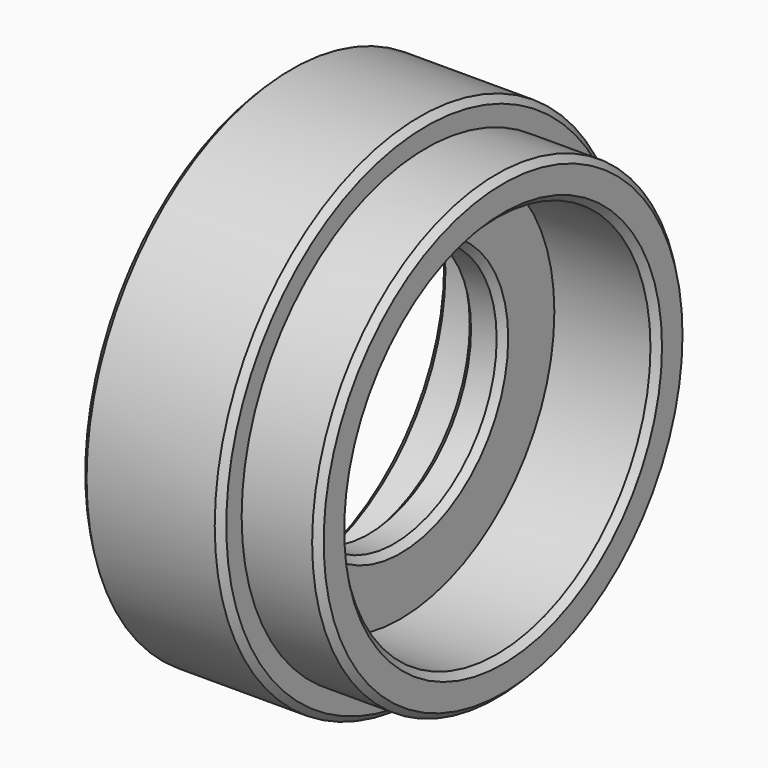
from build123d import *

# Parameters (mm, degrees)
F2_SIZE2 = 0.5
F2_SIZE  = 0.5


with BuildPart() as f1:
    # F0 (on Top) → F1 (revolve)
    with BuildSketch(Plane.XY):
        Polygon((0, 20), (0, 15), (6, 15), (6, 10), (9, 10), (9, 15), (17, 15), (17, 18), (11, 18), (11, 20), align=None)
    revolve(axis=Axis((8.5, 0, 0), (1, 0, 0)))

    # F2
    f2_edges = [f1.edges().sort_by_distance(p)[0] for p in [
        (0, -20, 0),
        (11, -20, 0),
        (17, -18, 0),
        (0, -15, 0),
        (6, -10, 0),
        (9, -10, 0),
        (17, -15, 0),
    ]]
    chamfer(f2_edges, length=F2_SIZE, length2=F2_SIZE2)


solid = f1.part
